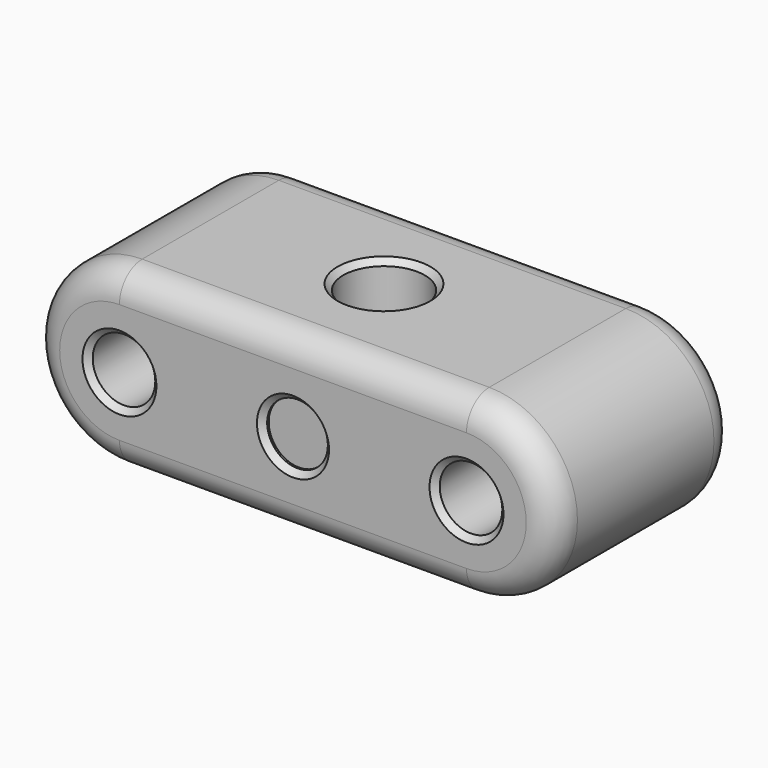
from build123d import *

# Parameters (mm, degrees)
SKETCH005_R     = 1.65
PAD003_DEPTH    = 12
SKETCH006_R     = 2.15
POCKET004_DEPTH = 20
CHAMFER002_SIZE = 0.3
FILLET002_R     = 1.5
SKETCH007_R     = 1.6
POCKET005_DEPTH = 0.4
CHAMFER003_SIZE = 0.3


with BuildPart() as part:
    # Sketch005 → Pad003 (new body)
    with BuildSketch(Plane.XZ):
        with BuildLine():
            ThreePointArc((0, 4.65), (-4.65, 0), (0, -4.65))
            Line((18.300003, -4.65), (0, -4.65))
            ThreePointArc((18.300003, -4.65), (22.95, 2e-06), (18.3, 4.65))
            Line((0, 4.65), (18.3, 4.65))
        make_face()
        Circle(SKETCH005_R, mode=Mode.SUBTRACT)
        with Locations((18.3, 0)):
            Circle(SKETCH005_R, mode=Mode.SUBTRACT)
    extrude(amount=PAD003_DEPTH)

    # Sketch006 (on Face2 of Pad003) → Pocket004 (cut)
    with BuildSketch(Plane(origin=(0, 0, 4.65), x_dir=(-1, 0, 0), z_dir=(0, 0, 1))):
        with Locations((-9.15, 6)):
            Circle(SKETCH006_R)
    extrude(amount=-POCKET004_DEPTH, mode=Mode.SUBTRACT)

    # Chamfer002
    chamfer002_edges = [part.edges().sort_by_distance(p)[0] for p in [
        (-1.65, -12, 0),
        (11.3, -6, 4.65),
        (16.65, -12, 0),
        (16.65, 0, 0),
        (-1.65, 0, 0),
    ]]
    chamfer(chamfer002_edges, length=CHAMFER002_SIZE)

    # Fillet002
    fillet002_edges = [part.edges().sort_by_distance(p)[0] for p in [
        (-4.65, 0, 0),
        (-4.65, -12, 0),
    ]]
    fillet(fillet002_edges, radius=FILLET002_R)

    # Sketch007 (on Face13 of Fillet002) → Pocket005 (cut)
    with BuildSketch(Plane.XZ.offset(12)):
        with Locations((9.15, 0)):
            Circle(SKETCH007_R)
    extrude(amount=-POCKET005_DEPTH, mode=Mode.SUBTRACT)

    # Chamfer003
    chamfer003_edges = [part.edges().sort_by_distance(p)[0] for p in [
        (7.55, -12, 0),
    ]]
    chamfer(chamfer003_edges, length=CHAMFER003_SIZE)


with BuildPart() as part_1:
    # Body002 placement: moved
    add(part.part.moved(Location((0, -47.5, 0))))


solid = part_1.part
